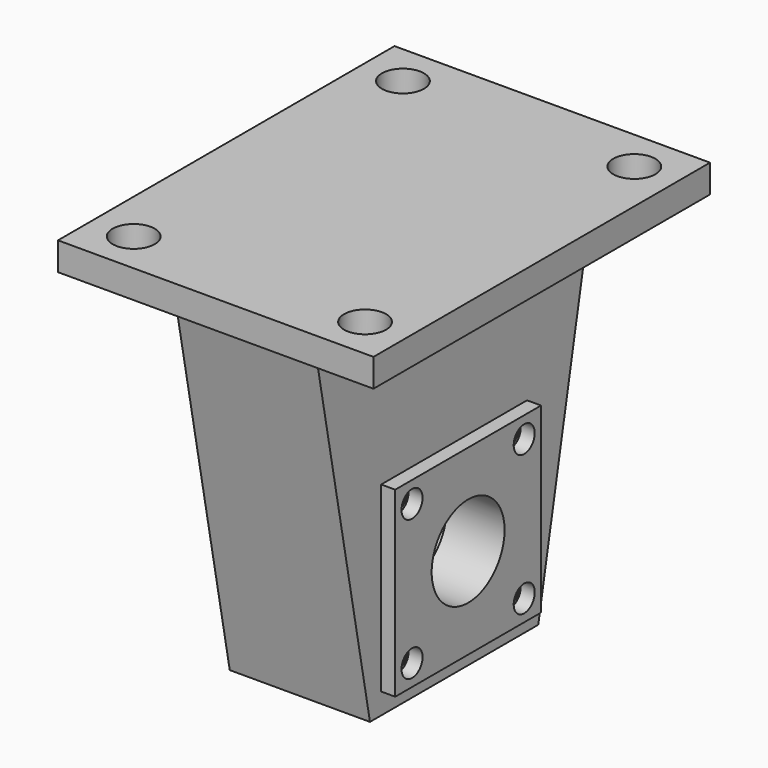
from build123d import *

# Parameters (mm, degrees)
F0_W      = 45
F0_H      = 60
F0_R      = 3
F1_DEPTH  = 4
F2_R      = 11.15
F3_DEPTH  = 10
F4_R      = 11.15
F4_R_2    = 6.5
F5_DEPTH  = 6.25
F6_R      = 10.65
F6_R_2    = 6.5
F7_DEPTH  = 6.25
F6_W      = 26
F6_H      = 26
F6_R_3    = 1.875
F6_R_4    = 11.15
F8_DEPTH  = 2
F9_R      = 1.5
F10_DEPTH = 11


with BuildPart() as f1:
    # F0 (on Top) → F1 (new body)
    with BuildSketch(Plane.XY):
        Rectangle(F0_W, F0_H)
        with Locations((-16.5, -24)):
            Circle(F0_R, mode=Mode.SUBTRACT)
        with Locations((16.5, -24)):
            Circle(F0_R, mode=Mode.SUBTRACT)
        with Locations((-16.5, 24)):
            Circle(F0_R, mode=Mode.SUBTRACT)
        with Locations((16.5, 24)):
            Circle(F0_R, mode=Mode.SUBTRACT)
    extrude(amount=F1_DEPTH)

    # F2 (on Right) → F3 (join, symmetric)
    with BuildSketch(Plane.YZ):
        Polygon((15, -52), (25, 0), (-25, 0), (-15, -52), align=None)
        with Locations((0, -36)):
            Circle(F2_R, mode=Mode.SUBTRACT)
    extrude(amount=F3_DEPTH, both=True)

    # F4 (on face) → F5 (join)
    with BuildSketch(Plane(origin=(-10, 0, 0), x_dir=(0, -1, 0), z_dir=(-1, 0, 0))):
        with Locations((0, -36)):
            Circle(F4_R)
        with Locations((0, -36)):
            Circle(F4_R_2, mode=Mode.SUBTRACT)
    extrude(amount=-F5_DEPTH)

    # F9 (on face) → F10 (cut)
    with BuildSketch(Plane.YZ.offset(10)):
        with Locations((-10, -26)):
            Circle(F9_R)
        with Locations((10, -26)):
            Circle(F9_R)
        with Locations((10, -46)):
            Circle(F9_R)
        with Locations((-10, -46)):
            Circle(F9_R)
    extrude(amount=-F10_DEPTH, mode=Mode.SUBTRACT)


with BuildPart() as f7:
    # F6 (on face) → F7 (new body)
    with BuildSketch(Plane.YZ.offset(10)):
        with Locations((0, -36)):
            Circle(F6_R)
        with Locations((0, -36)):
            Circle(F6_R_2, mode=Mode.SUBTRACT)
    extrude(amount=-F7_DEPTH)

    # F6 (on face) → F8 (join)
    with BuildSketch(Plane.YZ.offset(10)):
        with Locations((0, -36)):
            Rectangle(F6_W, F6_H)
        with Locations((-10, -46)):
            Circle(F6_R_3, mode=Mode.SUBTRACT)
        with Locations((10, -46)):
            Circle(F6_R_3, mode=Mode.SUBTRACT)
        with Locations((0, -36)):
            Circle(F6_R_4, mode=Mode.SUBTRACT)
        with Locations((-10, -26)):
            Circle(F6_R_3, mode=Mode.SUBTRACT)
        with Locations((10, -26)):
            Circle(F6_R_3, mode=Mode.SUBTRACT)
        with Locations((0, -36)):
            Circle(F6_R_4)
        with Locations((0, -36)):
            Circle(F6_R, mode=Mode.SUBTRACT)
        with Locations((0, -36)):
            Circle(F6_R)
        with Locations((0, -36)):
            Circle(F6_R_2, mode=Mode.SUBTRACT)
    extrude(amount=F8_DEPTH)


solid = Compound([f1.part, f7.part])
